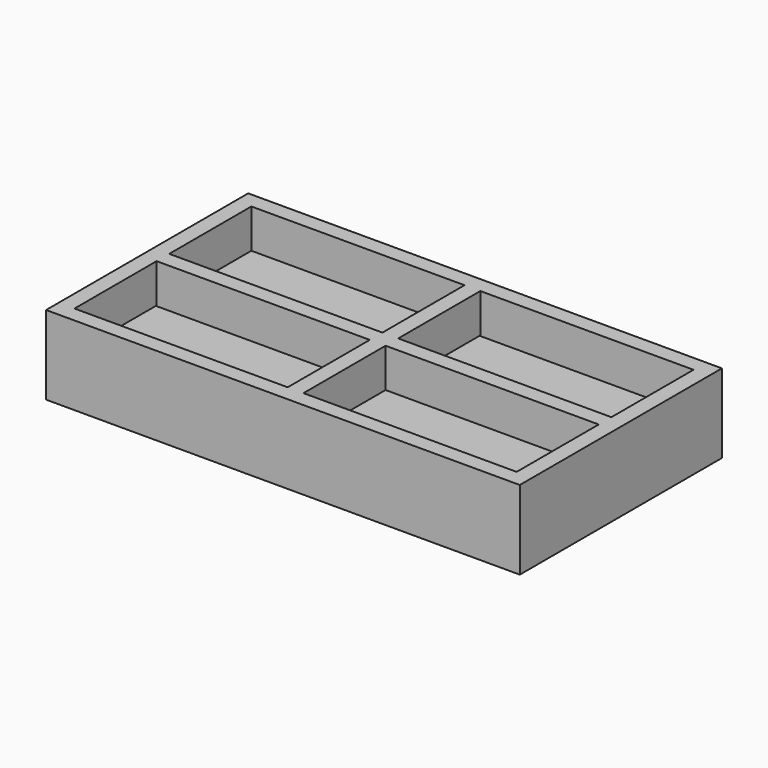
from build123d import *

# Parameters (mm, degrees)
F0_W     = 1500
F0_H     = 800
F0_W_2   = 675
F0_H_2   = 325
F1_DEPTH = 125
F2_W     = 675
F2_H     = 325
F3_DEPTH = 1.5


with BuildPart() as f1:
    # F0 (on Top) → F1 (new body, symmetric)
    with BuildSketch(Plane.XY):
        Rectangle(F0_W, F0_H)
        with Locations((-362.5, -187.5)):
            Rectangle(F0_W_2, F0_H_2, mode=Mode.SUBTRACT)
        with Locations((362.5, -187.5)):
            Rectangle(F0_W_2, F0_H_2, mode=Mode.SUBTRACT)
        with Locations((-362.5, 187.5)):
            Rectangle(F0_W_2, F0_H_2, mode=Mode.SUBTRACT)
        with Locations((362.5, 187.5)):
            Rectangle(F0_W_2, F0_H_2, mode=Mode.SUBTRACT)
    extrude(amount=F1_DEPTH, both=True)

    # F2 (on Top) → F3 (join, symmetric)
    with BuildSketch(Plane.XY):
        with Locations((-363.586962, 191.032607)):
            Rectangle(F2_W, F2_H)
        with Locations((361.956573, 184.51087)):
            Rectangle(F2_W, F2_H)
        with Locations((-365.217397, -190.489137)):
            Rectangle(F2_W, F2_H)
        with Locations((361.956573, -187.228256)):
            Rectangle(F2_W, F2_H)
    extrude(amount=F3_DEPTH, both=True)


solid = f1.part
